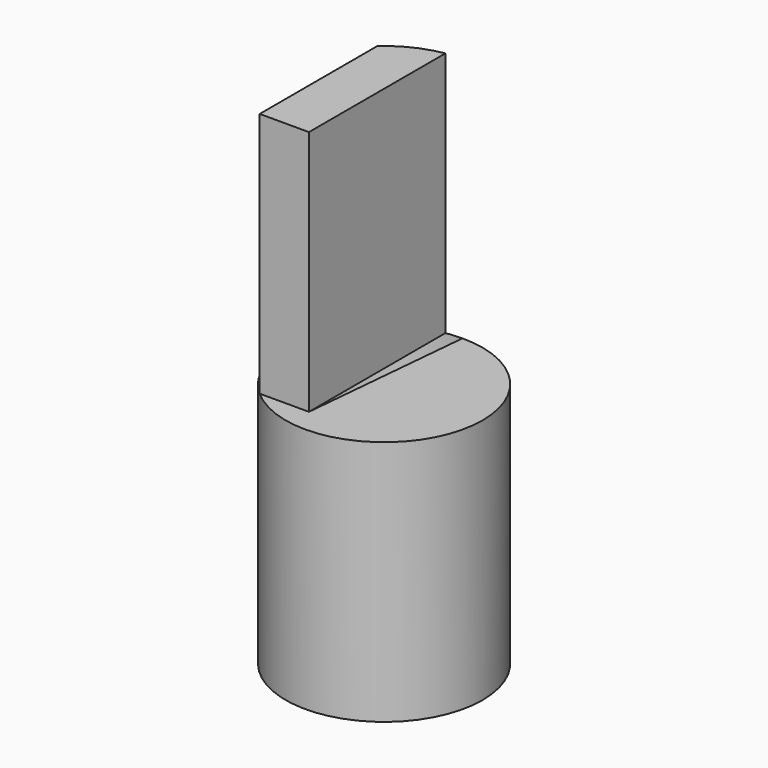
from build123d import *

# Parameters (mm, degrees)
F0_R     = 10
F1_DEPTH = 25
F3_DEPTH = 25


with BuildPart() as f1:
    # F0 (on Top) → F1 (new body)
    with BuildSketch(Plane.XY):
        Circle(F0_R)
    extrude(amount=F1_DEPTH)

    # F2 (on face) → F3 (join)
    with BuildSketch(Plane.XY.offset(25)):
        with BuildLine():
            Line((-6.663419, 7.456464), (-6.663419, -7.456464))
            Line((-6.663419, -7.456464), (-1.663419, -7.456464))
            Line((-1.663419, -7.456464), (-1.663419, 9.860681))
            ThreePointArc((-1.663419, 9.860681), (-4.333489, 9.012263), (-6.663419, 7.456464))
        make_face()
    extrude(amount=F3_DEPTH)


solid = f1.part
